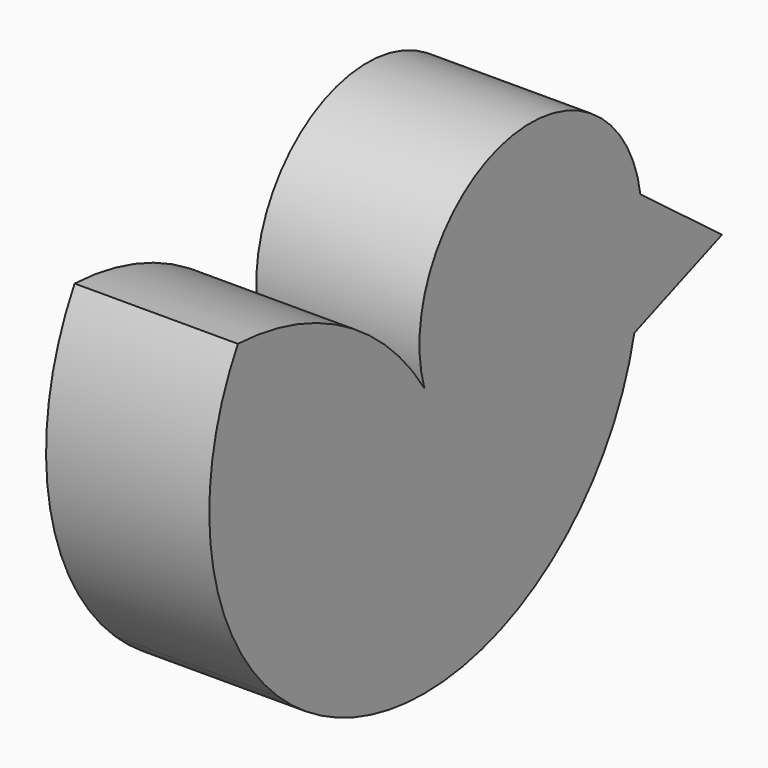
from build123d import *

# Parameters (mm, degrees)
F1_DEPTH = 20.828


with BuildPart() as f1:
    # F0 (on Right) → F1 (new body)
    with BuildSketch(Plane.YZ):
        with BuildLine():
            ThreePointArc((-38.881893, 34.558385), (-51.67462, 46.719688), (-68.627134, 51.635321))
            ThreePointArc((-68.627134, 51.635321), (-72.794153, 29.42421), (-62.239232, 9.441939))
            ThreePointArc((-62.239232, 9.441939), (-51.458628, 2.648717), (-38.942158, 0.259733))
            ThreePointArc((-38.942158, 0.259733), (-17.433325, 7.793481), (-5.394147, 27.144075))
            ThreePointArc((-5.394147, 27.144075), (-4.710099, 31.61057), (-4.619133, 36.128227))
            ThreePointArc((-4.619133, 36.128227), (-4.249669, 39.230896), (-4.431179, 42.350209))
            ThreePointArc((-4.431179, 42.350209), (-25.860322, 57.040886), (-38.881893, 34.558385))
        make_face()
        with BuildLine():
            Line((8.578393, 32.498907), (-4.431179, 42.350209))
            ThreePointArc((-4.431179, 42.350209), (-4.249669, 39.230896), (-4.619133, 36.128227))
            ThreePointArc((-4.619133, 36.128227), (-4.710099, 31.61057), (-5.394147, 27.144075))
            Line((-5.394147, 27.144075), (8.578393, 32.498907))
        make_face()
    extrude(amount=F1_DEPTH)


solid = f1.part
